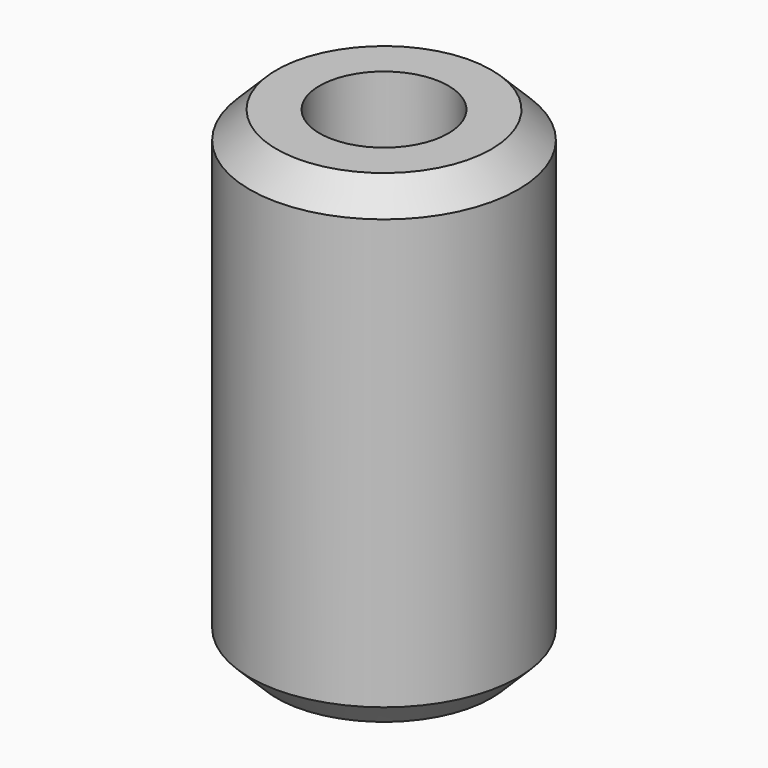
from build123d import *

# Parameters (mm, degrees)
F0_R     = 5
F1_DEPTH = 18
F2_R     = 2.4
F3_DEPTH = 12
F4_R     = 1.6
F5_DEPTH = 5
F6_SIZE  = 0.6
F7_SIZE  = 1


with BuildPart() as f1:
    # F0 (on Top) → F1 (new body)
    with BuildSketch(Plane.XY):
        Circle(F0_R)
    extrude(amount=F1_DEPTH)

    # F2 (on face) → F3 (cut)
    with BuildSketch(Plane.XY.offset(18)):
        Circle(F2_R)
    extrude(amount=-F3_DEPTH, mode=Mode.SUBTRACT)

    # F4 (on face) → F5 (cut)
    with BuildSketch(Plane(origin=(0, 0, 0), x_dir=(1, 0, 0), z_dir=(0, 0, -1))):
        with Locations((1.2, 0)):
            Circle(F4_R)
    extrude(amount=-F5_DEPTH, mode=Mode.SUBTRACT)

    # F6
    f6_edges = [f1.edges().sort_by_distance(p)[0] for p in [
        (-0.4, 0, 5),
        (-2.4, 0, 6),
    ]]
    chamfer(f6_edges, length=F6_SIZE)

    # F7
    f7_edges = [f1.edges().sort_by_distance(p)[0] for p in [
        (-5, 0, 0),
        (-5, 0, 18),
    ]]
    chamfer(f7_edges, length=F7_SIZE)


solid = f1.part
